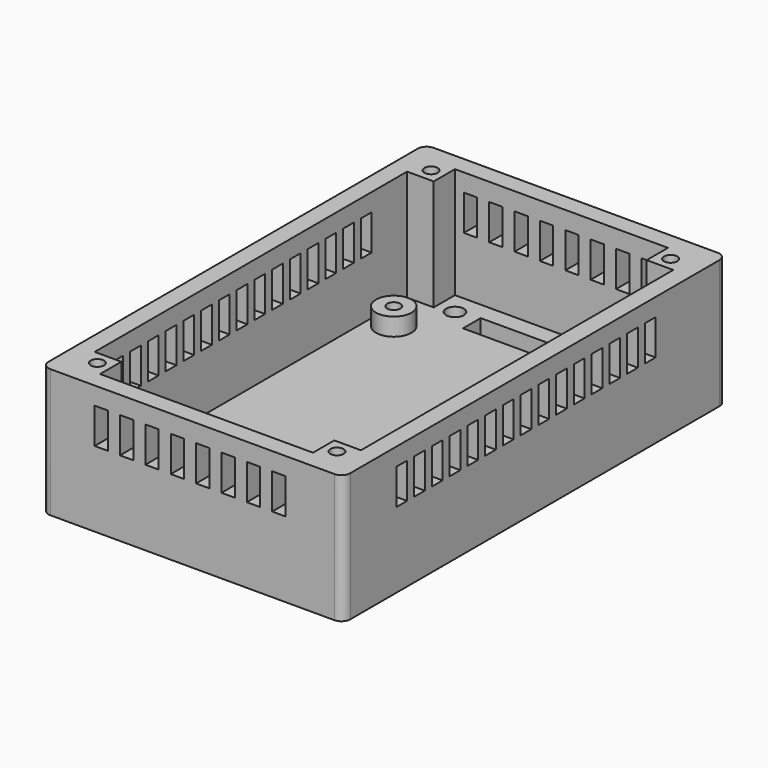
from build123d import *

# Parameters (mm, degrees)
SKETCH_W               = 68
SKETCH_H               = 108
PAD_DEPTH              = 4
SKETCH001_W            = 68
SKETCH001_H            = 108
SKETCH001_W_2          = 60
SKETCH001_H_2          = 100
PAD001_DEPTH           = 25
SKETCH002_R            = 2
SKETCH002_W            = 30
SKETCH002_H            = 5
POCKET_DEPTH           = 4
SKETCH003_R            = 4
SKETCH003_R_2          = 1.5
PAD002_DEPTH           = 4
SKETCH004_W            = 3
SKETCH004_H            = 8
POCKET001_DEPTH        = 70
LINEARPATTERN_COUNT    = 15
LINEARPATTERN_PITCH    = 5
SKETCH005_W            = 3
SKETCH005_H            = 8
POCKET002_DEPTH        = 110
LINEARPATTERN001_COUNT = 8
LINEARPATTERN001_PITCH = 5.714286
SKETCH006_W            = 6
SKETCH006_H            = 6
PAD003_DEPTH           = 25
SKETCH007_R            = 1.5
POCKET003_DEPTH        = 10
FILLET_R               = 2
FILLET001_R            = 2
FILLET002_R            = 2
FILLET003_R            = 2


with BuildPart() as part:
    # Sketch → Pad (new body)
    with BuildSketch(Plane.XY):
        with Locations((34, 54)):
            Rectangle(SKETCH_W, SKETCH_H)
    extrude(amount=PAD_DEPTH)

    # Sketch001 → Pad001 (new body)
    with BuildSketch(Plane.XY.offset(4)):
        with Locations((34, 54)):
            Rectangle(SKETCH001_W, SKETCH001_H)
        with Locations((34, 54)):
            Rectangle(SKETCH001_W_2, SKETCH001_H_2, mode=Mode.SUBTRACT)
    extrude(amount=PAD001_DEPTH)

    # Sketch002 → Pocket (cut)
    with BuildSketch(Plane.XY.offset(4)):
        with Locations((14, 9)):
            Circle(SKETCH002_R)
        with Locations((54, 9)):
            Circle(SKETCH002_R)
        with Locations((54, 99)):
            Circle(SKETCH002_R)
        with Locations((14, 99)):
            Circle(SKETCH002_R)
        with Locations((34, 97.5)):
            Rectangle(SKETCH002_W, SKETCH002_H)
    extrude(amount=-POCKET_DEPTH, mode=Mode.SUBTRACT)

    # Sketch003 → Pad002 (new body)
    with BuildSketch(Plane.XY.offset(4)):
        with Locations((9, 88)):
            Circle(SKETCH003_R)
        with Locations((9, 88)):
            Circle(SKETCH003_R_2, mode=Mode.SUBTRACT)
        with Locations((59, 88)):
            Circle(SKETCH003_R)
        with Locations((59, 88)):
            Circle(SKETCH003_R_2, mode=Mode.SUBTRACT)
        with Locations((59, 18)):
            Circle(SKETCH003_R)
        with Locations((59, 18)):
            Circle(SKETCH003_R_2, mode=Mode.SUBTRACT)
        with Locations((9, 18)):
            Circle(SKETCH003_R)
        with Locations((9, 18)):
            Circle(SKETCH003_R_2, mode=Mode.SUBTRACT)
    extrude(amount=PAD002_DEPTH)

    # Sketch004 → Pocket001 (cut)
    with BuildSketch(Plane.YZ.offset(68)):
        with Locations((16.5, 21)):
            Rectangle(SKETCH004_W, SKETCH004_H)
    pocket001 = extrude(amount=-POCKET001_DEPTH, mode=Mode.SUBTRACT)

    # LinearPattern: Pocket001 ×15
    with Locations(*[(0, i * LINEARPATTERN_PITCH, 0) for i in range(1, LINEARPATTERN_COUNT)]):
        add(pocket001, mode=Mode.SUBTRACT)

    # Sketch005 → Pocket002 (cut)
    with BuildSketch(Plane.XZ):
        with Locations((13.5, 21)):
            Rectangle(SKETCH005_W, SKETCH005_H)
    pocket002 = extrude(amount=-POCKET002_DEPTH, mode=Mode.SUBTRACT)

    # LinearPattern001: Pocket002 ×8
    with Locations(*[(i * LINEARPATTERN001_PITCH, 0, 0) for i in range(1, LINEARPATTERN001_COUNT)]):
        add(pocket002, mode=Mode.SUBTRACT)

    # Sketch006 → Pad003 (new body)
    with BuildSketch(Plane.XY.offset(4)):
        with Locations((7, 7)):
            Rectangle(SKETCH006_W, SKETCH006_H)
        with Locations((61, 7)):
            Rectangle(SKETCH006_W, SKETCH006_H)
        with Locations((7, 101)):
            Rectangle(SKETCH006_W, SKETCH006_H)
        with Locations((61, 101)):
            Rectangle(SKETCH006_W, SKETCH006_H)
    extrude(amount=PAD003_DEPTH)

    # Sketch007 → Pocket003 (cut)
    with BuildSketch(Plane.XY.offset(29)):
        with Locations((7, 7)):
            Circle(SKETCH007_R)
        with Locations((61, 7)):
            Circle(SKETCH007_R)
        with Locations((7, 101)):
            Circle(SKETCH007_R)
        with Locations((61, 101)):
            Circle(SKETCH007_R)
    extrude(amount=-POCKET003_DEPTH, mode=Mode.SUBTRACT)

    # Fillet
    fillet_edges = [part.edges().sort_by_distance(p)[0] for p in [
        (68, 0, 14.5),
    ]]
    fillet(fillet_edges, radius=FILLET_R)

    # Fillet001
    fillet001_edges = [part.edges().sort_by_distance(p)[0] for p in [
        (0, 0, 14.5),
    ]]
    fillet(fillet001_edges, radius=FILLET001_R)

    # Fillet002
    fillet002_edges = [part.edges().sort_by_distance(p)[0] for p in [
        (68, 108, 14.5),
    ]]
    fillet(fillet002_edges, radius=FILLET002_R)

    # Fillet003
    fillet003_edges = [part.edges().sort_by_distance(p)[0] for p in [
        (0, 108, 14.5),
    ]]
    fillet(fillet003_edges, radius=FILLET003_R)


solid = part.part
